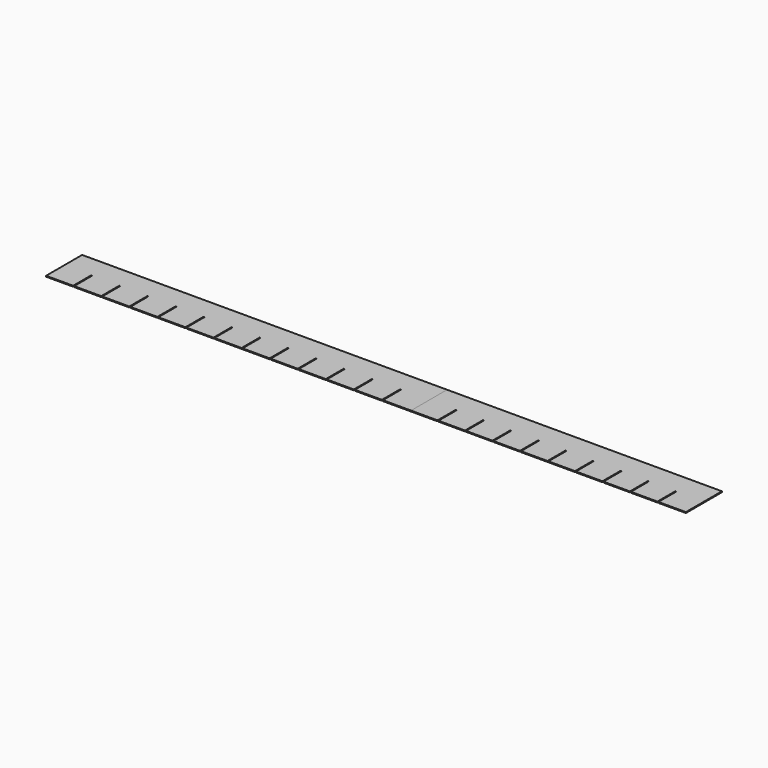
from build123d import *

# Parameters (mm, degrees)
F1_DEPTH = 1
F2_DEPTH = 1


with BuildPart() as f1:
    # F0 (on Top) → F1 (new body)
    with BuildSketch(Plane.XY):
        Polygon((405, 50), (0, 50), (0, 0), (30.05, 0), (30.05, 25), (31.15, 25), (31.15, 0), (61.2, 0), (61.2, 25), (62.3, 25), (62.3, 0), (92.35, 0), (92.35, 25), (93.45, 25), (93.45, 0), (123.5, 0), (123.5, 25), (124.6, 25), (124.6, 0), (154.65, 0), (154.65, 25), (155.75, 25), (155.75, 0), (185.8, 0), (185.8, 25), (186.9, 25), (186.9, 0), (216.95, 0), (216.95, 25), (218.05, 25), (218.05, 0), (248.1, 0), (248.1, 25), (249.2, 25), (249.2, 0), (279.25, 0), (279.25, 25), (280.35, 25), (280.35, 0), (310.4, 0), (310.4, 25), (311.5, 25), (311.5, 0), (341.55, 0), (341.55, 25), (342.65, 25), (342.65, 0), (372.7, 0), (372.7, 25), (373.8, 25), (373.8, 0), (405, 0), align=None)
    extrude(amount=F1_DEPTH)


with BuildPart() as f2:
    # F0 (on Top) → F2 (new body)
    with BuildSketch(Plane.XY):
        Polygon((710, 50), (405, 50), (405, 0), (434.4, 0), (434.4, 25), (435.5, 25), (435.5, 0), (464.9, 0), (464.9, 25), (466, 25), (466, 0), (495.4, 0), (495.4, 25), (496.5, 25), (496.5, 0), (525.9, 0), (525.9, 25), (527, 25), (527, 0), (556.4, 0), (556.4, 25), (557.5, 25), (557.5, 0), (586.9, 0), (586.9, 25), (588, 25), (588, 0), (617.4, 0), (617.4, 25), (618.5, 25), (618.5, 0), (647.9, 0), (647.9, 25), (649, 25), (649, 0), (678.4, 0), (678.4, 25), (679.5, 25), (679.5, 0), (710, 0), align=None)
    extrude(amount=F2_DEPTH)


solid = Compound([f1.part, f2.part])
